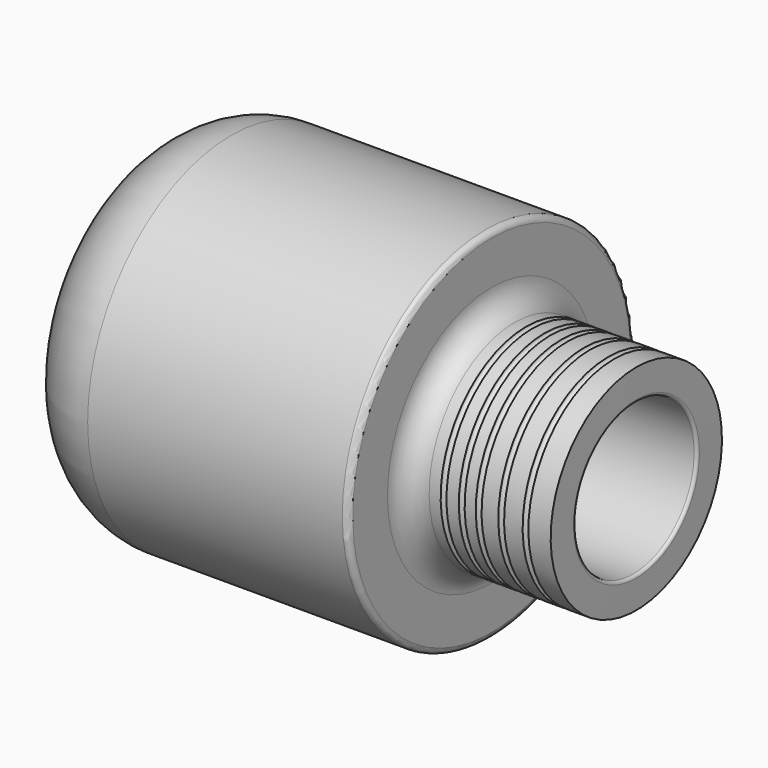
from build123d import *

# Parameters (mm, degrees)
F2_R     = 2.5
F3_DEPTH = 31.001


with BuildPart() as f1:
    # F0 (on Front) → F1 (revolve)
    with BuildSketch(Plane.XZ):
        with BuildLine():
            Line((59, 31), (15, 31))
            ThreePointArc((15, 31), (4.393398, 26.606602), (0, 16))
            Line((0, 16), (0, 6))
            Line((0, 6), (4.740647, 6))
            Line((4.740647, 6), (13.017871, 9.586595))
            ThreePointArc((13.017871, 9.586595), (15.758635, 16.980296), (23.005231, 20.089227))
            Line((23.005231, 20.089227), (55.517864, 20.089227))
            Line((55.517864, 20.089227), (55.517864, 18.089227))
            ThreePointArc((55.517864, 18.089227), (56.98233, 14.553693), (60.517864, 13.089227))
            Line((60.517864, 13.089227), (84.525846, 13.089227))
            ThreePointArc((84.525846, 13.089227), (84.880328, 13.236605), (85.025839, 13.591859))
            Line((85.025839, 13.591859), (85, 18.5))
            Line((85, 18.5), (81.153153, 18.5))
            ThreePointArc((81.153153, 18.5), (80.653153, 18), (80.153153, 18.5))
            Line((80.153153, 18.5), (76.952129, 18.5))
            ThreePointArc((76.952129, 18.5), (76.452129, 18), (75.952129, 18.5))
            Line((75.952129, 18.5), (73.062292, 18.5))
            ThreePointArc((73.062292, 18.5), (72.562292, 18), (72.062292, 18.5))
            Line((72.062292, 18.5), (70.137127, 18.5))
            ThreePointArc((70.137127, 18.5), (69.637127, 18), (69.137127, 18.5))
            Line((69.137127, 18.5), (66.994144, 18.5))
            ThreePointArc((66.994144, 18.5), (66.494144, 18), (65.994144, 18.5))
            Line((65.994144, 18.5), (64, 18.5))
            ThreePointArc((64, 18.5), (61.171573, 19.671573), (60, 22.5))
            Line((60, 22.5), (60, 30))
            ThreePointArc((60, 30), (59.707107, 30.707107), (59, 31))
        make_face()
    revolve(axis=Axis((39.523, 0, 0), (1, 0, 0)))

    # F2 (on Front) → F3 (cut, through all)
    with BuildSketch(Plane.XZ):
        with Locations((38.762923, 8e-06)):
            Circle(F2_R)
    extrude(amount=-F3_DEPTH, mode=Mode.SUBTRACT)


solid = f1.part
